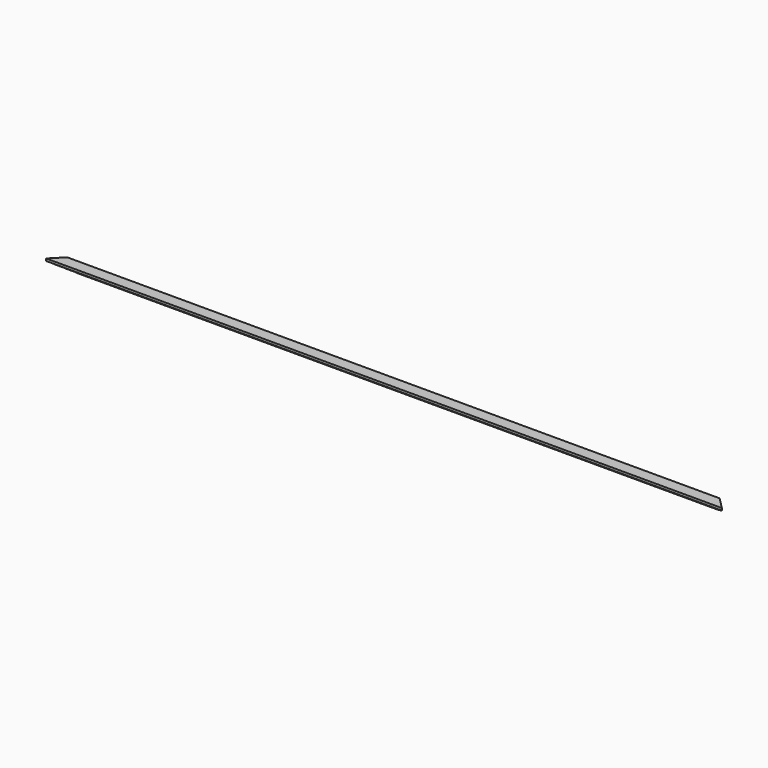
from build123d import *

# Parameters (mm, degrees)
F1_DEPTH      = 533.4
F1_DEPTH_BACK = 533.4
F3_DEPTH      = 36.7586830666


with BuildPart() as f1:
    # F0 (on Right) → F1 (new body, two sides)
    with BuildSketch(Plane.YZ) as f1_sk:
        with BuildLine():
            Line((0, 0), (0, 7.62))
            Line((0, 7.62), (-41.6129238499, 36.7576829666))
            Line((-41.6129238499, 36.7576829666), (-59.6469238499, 36.7576829666))
            Line((-59.6469238499, 36.7576829666), (-59.6469238499, 33.2651829666))
            Line((-59.6469238499, 33.2651829666), (-55.5780977011, 33.2651829666))
            add(Edge.make_bspline(
                [(-45.5723330379, 29.6813156456), (-49.7835501701, 25.4700985133), (-53.450101218, 29.596019167), (-52.9320531806, 28.3195054473), (-55.5780977011, 33.2651829666)],
                knots=[0, 0, 0, 0, 0.5231206432, 1, 1, 1, 1], degree=3))
            add(Edge.make_bspline(
                [(-45.5723330379, 29.6813156456), (-44.8822788894, 18.9855005592), (-39.7068858147, 18.9855005592), (-36.6016514599, 25.7135145366)],
                knots=[0, 0, 0, 0, 9.8090047208, 9.8090047208, 9.8090047208, 9.8090047208], degree=3))
            Line((-36.6016514599, 25.7135145366), (-34.1559106391, 15.4807388001))
            Line((-34.1559106391, 15.4807388001), (-29.0110725909, 17.0878581703))
            add(Edge.make_bspline(
                [(-10.668, 0), (-11.1556568149, 2.7846370926), (-10.5829747075, 5.9542784256), (-12.8913166716, 8.7807780932), (-27.909309552, 10.3925271921), (-29.0110725909, 17.0878581703)],
                knots=[0, 0, 0, 0, 0.2877944543, 0.4943428173, 1, 1, 1, 1], degree=3))
            Line((-10.668, 0), (0, 0))
        make_face()
    extrude(amount=F1_DEPTH)
    extrude(f1_sk.sketch, amount=-F1_DEPTH_BACK)

    # F2 (on Top) → F3 (cut, through all)
    with BuildSketch(Plane.XY):
        Polygon((539.7667148769, 0), (457.2, 0), (539.7667148769, -82.5667148769), align=None)
        Polygon((-539.7667148769, -82.5667148769), (-457.2, 0), (-539.7667148769, 0), align=None)
    extrude(amount=F3_DEPTH, mode=Mode.SUBTRACT)


solid = f1.part
